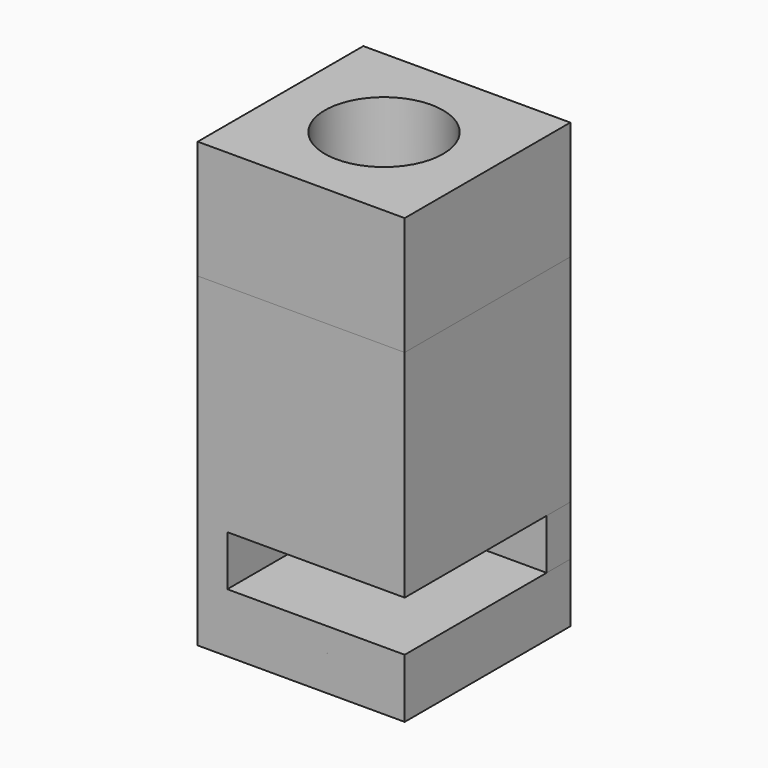
from build123d import *

# Parameters (mm, degrees)
BOX_W           = 14
BOX_H           = 14
BOX_DEPTH       = 30
SKETCH_R        = 1.9
POCKET_DEPTH    = 17.5
SKETCH001_R     = 4
POCKET001_DEPTH = 13
SKETCH002_W     = 12.464965
SKETCH002_H     = 3.4
POCKET002_DEPTH = 12
POCKET003_DEPTH = 2
BOX001_W        = 14
BOX001_H        = 14
BOX001_DEPTH    = 22
SKETCH004_R     = 1.9
POCKET004_DEPTH = 17.5
SKETCH005_R     = 4
POCKET005_DEPTH = 13
SKETCH006_W     = 15.197168
SKETCH006_H     = 3.4
POCKET006_DEPTH = 15
POCKET007_DEPTH = 2


with BuildPart() as pocket003:
    # Box → Box (new body)
    with BuildSketch(Plane.XY):
        with Locations((7, 7)):
            Rectangle(BOX_W, BOX_H)
    extrude(amount=BOX_DEPTH)

    # Sketch → Pocket (cut)
    with BuildSketch(Plane(origin=(0, 0, 0), x_dir=(1, 0, 0), z_dir=(0, 0, -1))):
        with Locations((7, -7)):
            Circle(SKETCH_R)
    extrude(amount=-POCKET_DEPTH, mode=Mode.SUBTRACT)

    # Sketch001 → Pocket001 (cut)
    with BuildSketch(Plane.XY.offset(30)):
        with Locations((7, 7)):
            Circle(SKETCH001_R)
    extrude(amount=-POCKET001_DEPTH, mode=Mode.SUBTRACT)

    # Sketch002 → Pocket002 (cut)
    with BuildSketch(Plane.XZ):
        with Locations((8.232482, 5.7)):
            Rectangle(SKETCH002_W, SKETCH002_H)
    extrude(amount=-POCKET002_DEPTH, mode=Mode.SUBTRACT)

    # Sketch003 → Pocket003 (cut)
    with BuildSketch(Plane(origin=(0, 0, 0), x_dir=(1, 0, 0), z_dir=(0, 0, -1))):
        Polygon((5.4, -4.228719), (3.8, -7), (5.4, -9.771281), (8.6, -9.771281), (10.2, -7), (8.6, -4.228719), align=None)
    extrude(amount=-POCKET003_DEPTH, mode=Mode.SUBTRACT)


with BuildPart() as pocket007:
    # Box001 → Box001 (new body)
    with BuildSketch(Plane.XY):
        with Locations((7, 7)):
            Rectangle(BOX001_W, BOX001_H)
    extrude(amount=BOX001_DEPTH)

    # Sketch004 → Pocket004 (cut)
    with BuildSketch(Plane(origin=(0, 0, 0), x_dir=(1, 0, 0), z_dir=(0, 0, -1))):
        with Locations((7, -7)):
            Circle(SKETCH004_R)
    extrude(amount=-POCKET004_DEPTH, mode=Mode.SUBTRACT)

    # Sketch005 → Pocket005 (cut)
    with BuildSketch(Plane.XY.offset(22)):
        with Locations((7, 7)):
            Circle(SKETCH005_R)
    extrude(amount=-POCKET005_DEPTH, mode=Mode.SUBTRACT)

    # Sketch006 → Pocket006 (cut)
    with BuildSketch(Plane.XZ):
        with Locations((9.598584, 5.7)):
            Rectangle(SKETCH006_W, SKETCH006_H)
    extrude(amount=-POCKET006_DEPTH, mode=Mode.SUBTRACT)

    # Sketch007 → Pocket007 (cut)
    with BuildSketch(Plane(origin=(0, 0, 0), x_dir=(1, 0, 0), z_dir=(0, 0, -1))):
        Polygon((5.4, -4.228719), (3.8, -7), (5.4, -9.771281), (8.6, -9.771281), (10.2, -7), (8.6, -4.228719), align=None)
    extrude(amount=-POCKET007_DEPTH, mode=Mode.SUBTRACT)


solid = Compound([pocket003.part, pocket007.part])
